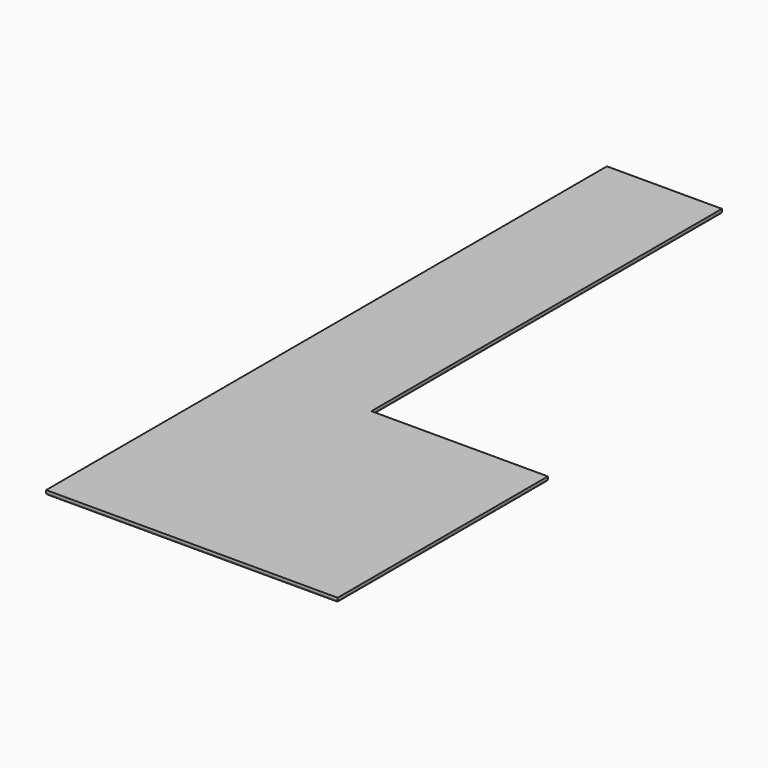
from build123d import *

# Parameters (mm, degrees)
F1_DEPTH = 8
F2_R     = 4


with BuildPart() as f1:
    # F0 (on Top) → F1 (new body)
    with BuildSketch(Plane.XY):
        Polygon((0, 1219), (0, 0), (507, 0), (507, 457), (200, 457), (200, 1219), align=None)
    extrude(amount=F1_DEPTH)

    # F2
    f2_edges = [f1.edges().sort_by_distance(p)[0] for p in [
        (0, 609.5, 0),
        (253.5, 0, 0),
        (507, 228.5, 0),
        (353.5, 457, 0),
        (200, 838, 0),
        (100, 1219, 0),
    ]]
    fillet(f2_edges, radius=F2_R)


solid = f1.part
